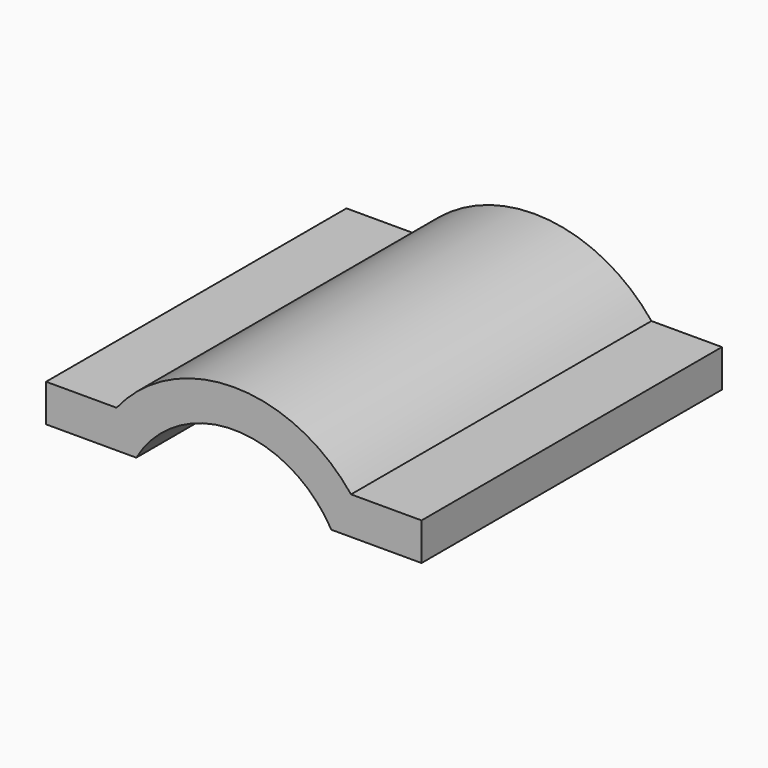
from build123d import *

# Parameters (mm, degrees)
F1_DEPTH = 100


with BuildPart() as f1:
    # F0 (on Front) → F1 (new body)
    with BuildSketch(Plane.XZ):
        with BuildLine():
            Line((50, 15), (50, 25))
            Line((50, 25), (31.22499, 25))
            ThreePointArc((31.22499, 25), (0, 40), (-31.22499, 25))
            Line((-31.22499, 25), (-50, 25))
            Line((-50, 25), (-50, 15))
            Line((-50, 15), (-25.980762, 15))
            ThreePointArc((-25.980762, 15), (0, 30), (25.980762, 15))
            Line((25.980762, 15), (50, 15))
        make_face()
    extrude(amount=F1_DEPTH)


solid = f1.part
